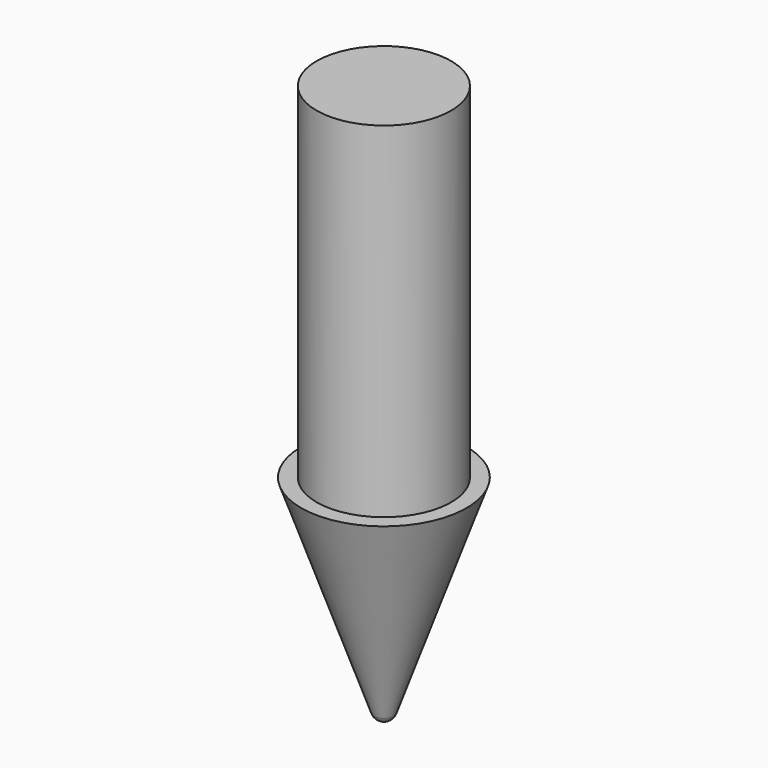
from build123d import *

# Parameters (mm, degrees)
F0_W = 2.4765
F0_H = 12.7


with BuildPart() as f1:
    # F0 (on Front) → F1 (revolve)
    with BuildSketch(Plane.XZ):
        with Locations((-1.23825, 6.35)):
            Rectangle(F0_W, F0_H)
        with BuildLine():
            Line((0, -7.491445), (0, 0))
            Line((0, 0), (-2.4765, 0))
            Line((-2.4765, 0), (-3.048, 0))
            Line((-3.048, 0), (-0.365128, -7.62))
            ThreePointArc((-0.365128, -7.62), (-0.223698, -7.807362), (0, -7.878542))
            Line((0, -7.878542), (0, -7.491445))
        make_face()
    revolve(axis=Axis((0, 0, 2.410729), (0, 0, -1)))


solid = f1.part
